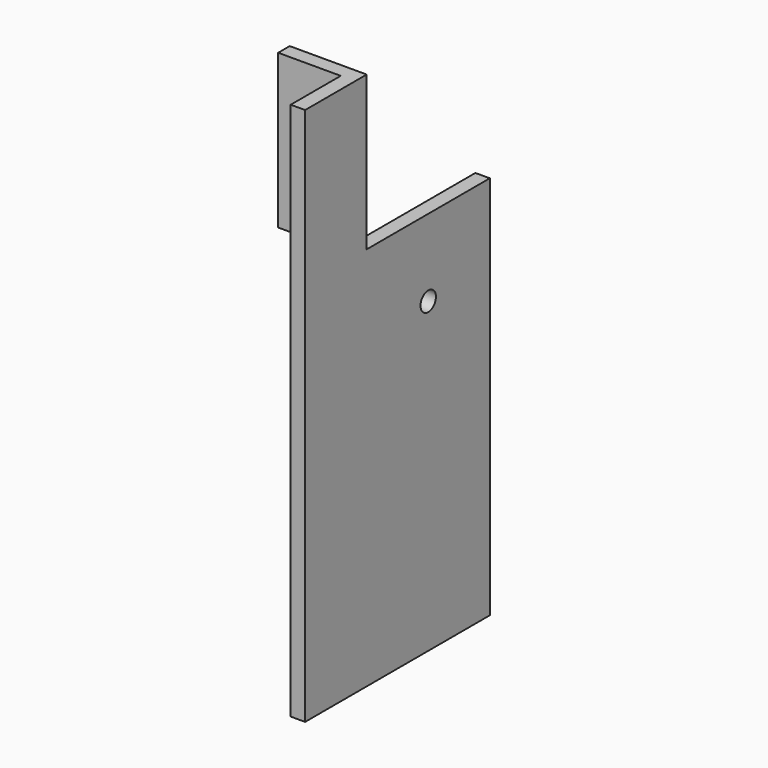
from build123d import *

# Parameters (mm, degrees)
F0_W     = 152.4
F0_H     = 254
F0_R     = 6.35
F1_DEPTH = 4.7625
F3_DEPTH = 101.6


with BuildPart() as f1:
    # F0 (on Right) → F1 (new body, symmetric)
    with BuildSketch(Plane.YZ):
        with Locations((17.4530185759, 50.9455445287)):
            Rectangle(F0_W, F0_H)
        with Locations((42.8530185759, 127.1455445287)):
            Circle(F0_R, mode=Mode.SUBTRACT)
    extrude(amount=F1_DEPTH, both=True)

    # F2 (on face) → F3 (join)
    with BuildSketch(Plane.XY.offset(177.9455445287)):
        Polygon((-4.7625, -58.7469814241), (4.7625, -58.7469814241), (4.7625, -7.9469814241), (-46.0375, -7.9469814241), (-46.0375, -17.4719814241), (-4.7625, -17.4719814241), align=None)
    extrude(amount=F3_DEPTH)


solid = f1.part
